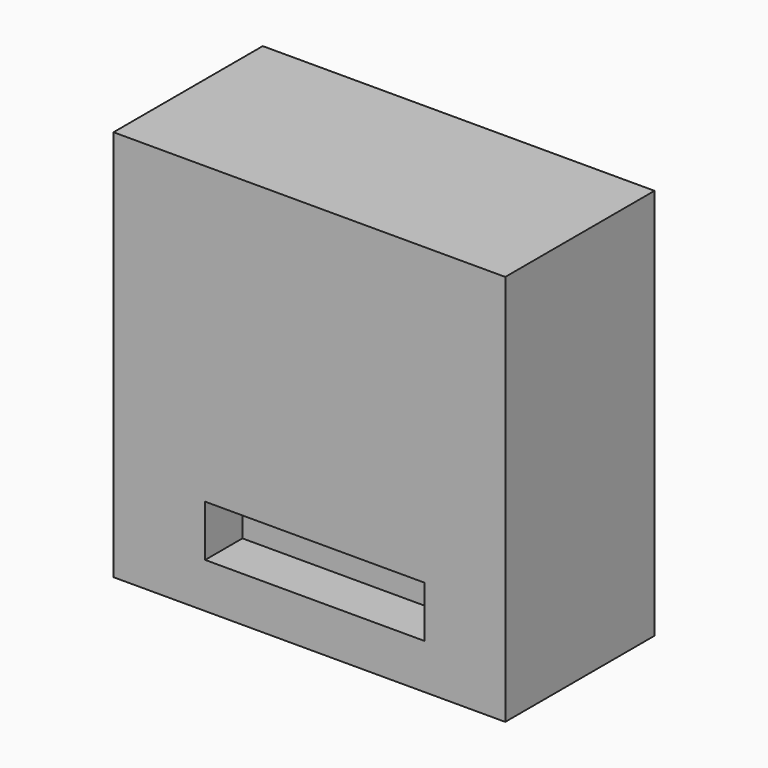
from build123d import *

# Parameters (mm, degrees)
SKETCH_W     = 42
SKETCH_H     = 42
PAD_DEPTH    = 20
SKETCH001_R  = 7
PAD001_DEPTH = 4.5
SKETCH002_R  = 3
HOLE_DEPTH   = 0.5
HOLE_TIPS_R  = 3
SKETCH003_W  = 23.5
SKETCH003_H  = 5.5
POCKET_DEPTH = 5


with BuildPart() as part:
    # Sketch → Pad (new body)
    with BuildSketch(Plane.XZ):
        with Locations((8.147526, -9.378734)):
            Rectangle(SKETCH_W, SKETCH_H)
    extrude(amount=PAD_DEPTH)

    # Sketch001 (on Face5 of Pad) → Pad001 (join)
    with BuildSketch(Plane(origin=(0, 0, 0), x_dir=(1, 0, 0), z_dir=(0, 1, 0))):
        with Locations((8.142856, 9.219142)):
            Circle(SKETCH001_R)
    extrude(amount=PAD001_DEPTH)

    # Sketch002 (on Face8 of Pad001) → Hole (cut)
    with BuildSketch(Plane(origin=(0, 4.5, 0), x_dir=(1, 0, 0), z_dir=(0, 1, 0))):
        with Locations((8.27745, 9.219093)):
            Circle(SKETCH002_R)
    extrude(amount=-HOLE_DEPTH, mode=Mode.SUBTRACT)

    # Hole tips → Hole tip 1 section 0
    with BuildSketch(Plane(origin=(0, 4, 0), x_dir=(1, 0, 0), z_dir=(0, 1, 0)), mode=Mode.PRIVATE) as hole_tip_1_s0:
        with Locations((8.27745, 9.219093)):
            Circle(HOLE_TIPS_R)
    loft([hole_tip_1_s0.sketch, Vertex(8.27745, 2.197418, -9.219093)], mode=Mode.SUBTRACT)

    # Sketch003 (on Face5 of Hole) → Pocket (cut)
    with BuildSketch(Plane.XZ.offset(20)):
        with Locations((8.721823, -22.801634)):
            Rectangle(SKETCH003_W, SKETCH003_H)
    extrude(amount=-POCKET_DEPTH, mode=Mode.SUBTRACT)


solid = part.part
